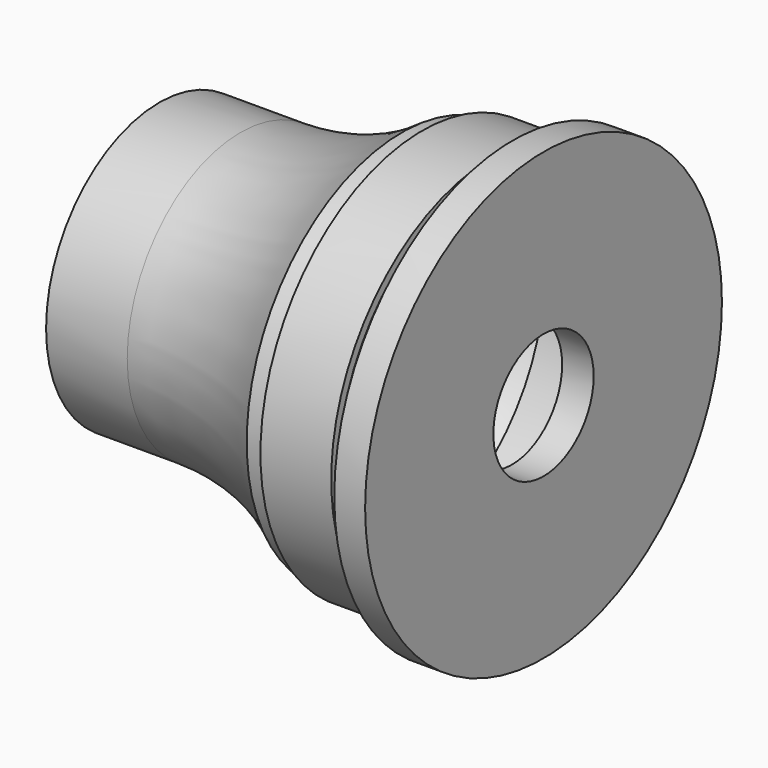
from build123d import *


with BuildPart() as f1:
    # F0 (on Top) → F1 (revolve)
    with BuildSketch(Plane.XY):
        with BuildLine():
            Line((4.013288, 7), (0, 7))
            Line((0, 7), (0, 3.1))
            Line((0, 3.1), (1.560832, 3.1))
            Line((1.560832, 3.1), (1.560832, 3.666155))
            ThreePointArc((1.560832, 3.666155), (2.782858, 5.09822), (4.491065, 5.88954))
            Line((4.491065, 5.88954), (6.760586, 6.393561))
            ThreePointArc((6.760586, 6.393561), (9.548774, 7.279169), (12.136062, 8.644541))
            Line((12.136062, 8.644541), (17.309956, 8.644541))
            Line((17.309956, 8.644541), (17.626533, 5.955102))
            Line((17.626533, 5.955102), (17.439168, 3.1))
            Line((17.439168, 3.1), (19, 3.1))
            Line((19, 3.1), (19, 11.027924))
            Line((19, 11.027924), (17.473445, 11.027924))
            Line((17.473445, 11.027924), (17.5, 9.618846))
            Line((17.5, 9.618846), (16.5, 9.6))
            Line((16.5, 9.6), (16.5, 10))
            Line((16.5, 10), (13, 10))
            Line((13, 10), (13, 9.6))
            Line((13, 9.6), (12, 9.6))
            ThreePointArc((12, 9.6), (8.212918, 7.666365), (4.013288, 7))
        make_face()
    revolve(axis=Axis((8.987734, 0, 0), (1, 0, 0)))


solid = f1.part
